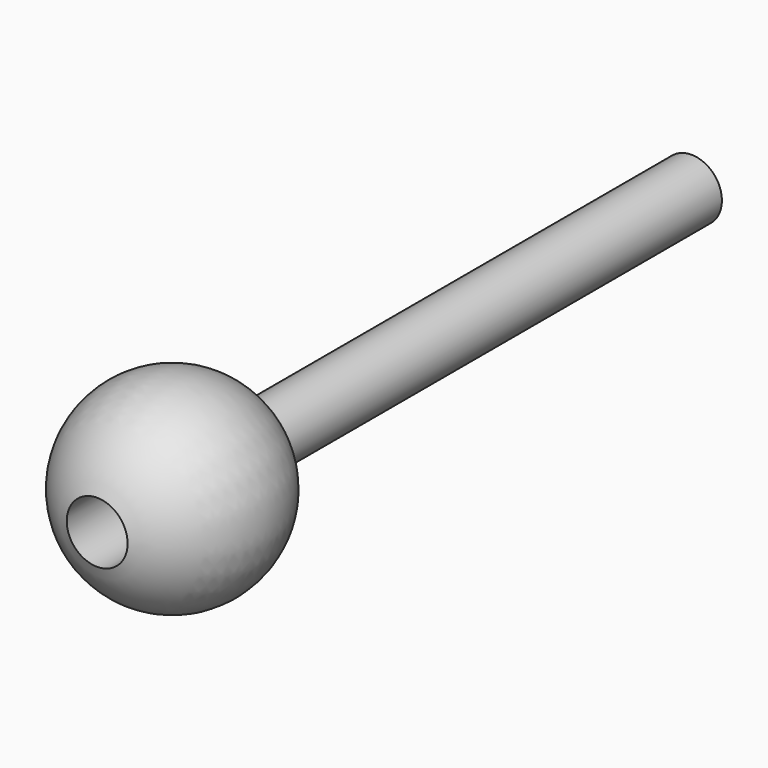
from build123d import *


with BuildPart() as part:
    # Sketch → Revolution (revolve)
    with BuildSketch(Plane.XY):
        with BuildLine():
            ThreePointArc((2.5, 0.395456), (8.1, 8.1), (2.5, 15.804544))
            Line((2.5, 61.395), (2.5, 15.804544))
            Line((0, 61.395), (2.5, 61.395))
            Line((0, 61.395), (0, 7.395))
            Line((0, 7.395), (2.5, 7.395))
            Line((2.5, 7.395), (2.5, 0.395456))
        make_face()
    revolve(axis=Axis((0, 0, 0), (0, 1, 0)))


solid = part.part
